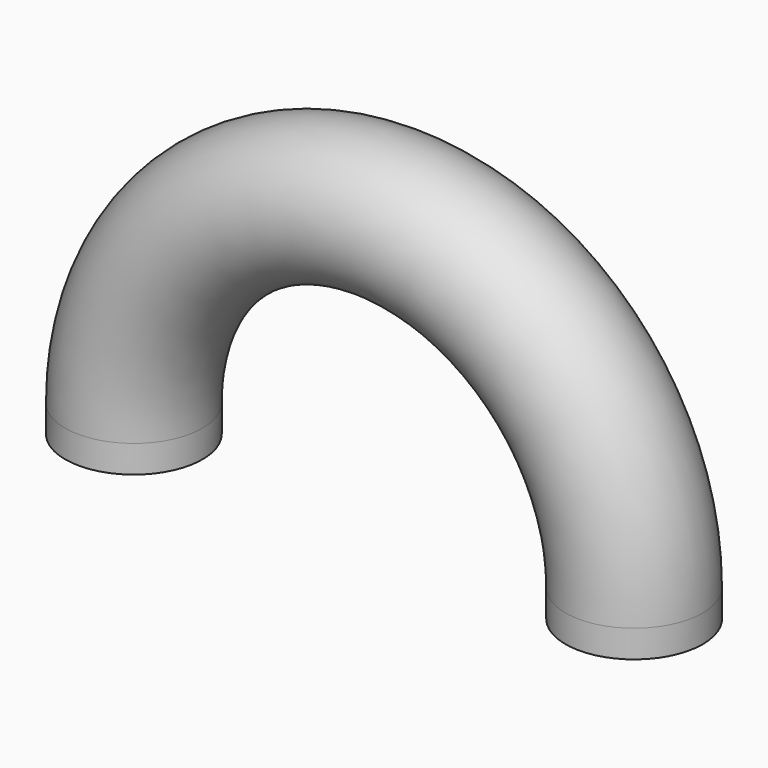
from build123d import *

# Parameters (mm, degrees)
F1_R = 6.35
F3_T = -1.27


with BuildPart() as f2:
    # F2: sweep along a path in F0
    with BuildLine(Plane.XZ) as f2_path:
        Line((-23.1357552849, 0), (-23.1357552849, 2.54))
        ThreePointArc((-23.1357552849, 2.54), (0, 25.6757552849), (23.1357552849, 2.54))
        Line((23.1357552849, 2.54), (23.1357552849, 0))
    # F1 (on Top) → F2 (sweep)
    with BuildSketch(Plane.XY):
        with Locations((23.1357552849, 0)):
            Circle(F1_R)
    sweep(path=f2_path.line)

    # F3
    f3_openings = [f2.faces().sort_by_distance(p)[0] for p in [
        (-23.135755, 0, 0),
        (23.135755, 0, 0),
    ]]
    offset(amount=F3_T, openings=f3_openings)


solid = f2.part
